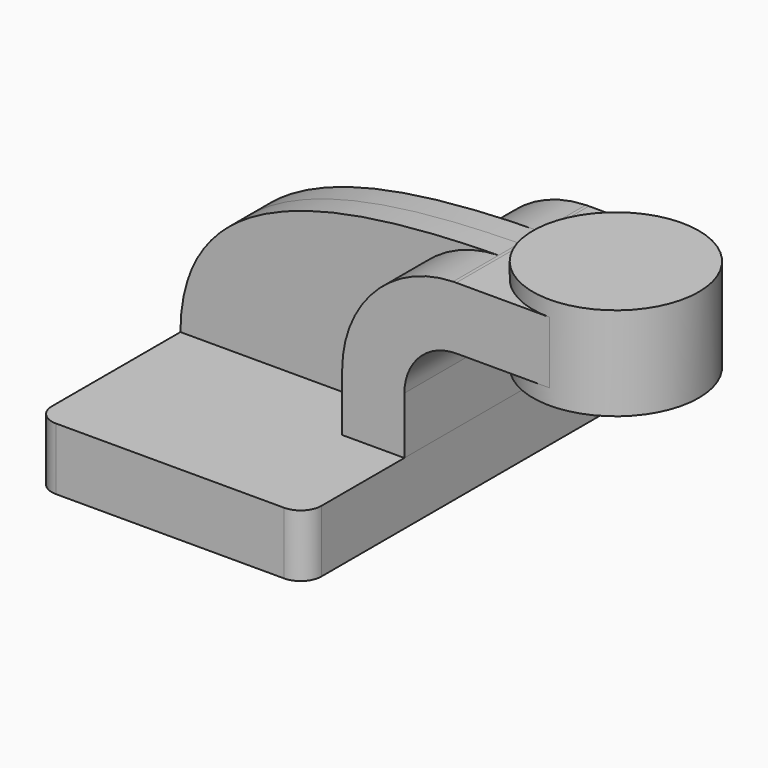
from build123d import *

# Parameters (mm, degrees)
F1_DEPTH = 63.5
F0_W     = 25.4
F0_H     = 19.05
F2_DEPTH = 25.4
F3_DEPTH = 7.9375
F5_R     = 6.35


with BuildPart() as f1:
    # F0 (on Front) → F1 (new body, symmetric)
    with BuildSketch(Plane.XZ):
        Polygon((-41.275, 9.525), (-41.275, -9.525), (41.275, -9.525), (41.275, 9.525), (22.225, 9.525), align=None)
    extrude(amount=F1_DEPTH, both=True)

    # F5
    f5_edges = [f1.edges().sort_by_distance(p)[0] for p in [
        (-41.275, -63.5, 0),
        (41.275, -63.5, 0),
        (41.275, 63.5, 0),
        (-41.275, 63.5, 0),
    ]]
    fillet(f5_edges, radius=F5_R)


with BuildPart() as f2:
    # F0 (on Front) → F2 (new body, symmetric)
    with BuildSketch(Plane.XZ):
        with BuildLine():
            Line((22.225, 9.525), (41.275, 9.525))
            Line((41.275, 9.525), (41.275, 27.0002))
            ThreePointArc((41.275, 27.0002), (45.9246798487, 38.2255201513), (57.15, 42.8752))
            Line((57.15, 42.8752), (60.325, 42.8752))
            Line((60.325, 42.8752), (60.325, 61.9252))
            Line((60.325, 61.9252), (57.15, 61.9252))
            add(Edge.make_bspline(
                [(56.1780302575, 61.9116723239), (56.5019603383, 61.9164954486), (56.825954601, 61.921002035), (57.15, 61.9252)],
                knots=[110.7782222377, 110.7782222377, 110.7782222377, 110.7782222377, 111.5045361635, 111.5045361635, 111.5045361635, 111.5045361635], degree=3))
            ThreePointArc((56.1780302575, 61.9116723239), (32.1130106816, 51.3498363602), (22.225, 27.0002))
            Line((22.225, 27.0002), (22.225, 9.525))
        make_face()
        with Locations((73.025, 52.4002)):
            Rectangle(F0_W, F0_H)
    extrude(amount=F2_DEPTH, both=True)

    # F0 (on Front) → F4 (revolve)
    with BuildSketch(Plane.XZ):
        Polygon((85.725, 66.675), (85.725, 61.9252), (85.725, 42.8752), (85.725, 38.1), (111.125, 38.1), (111.125, 66.675), align=None)
    revolve(axis=Axis((85.725, 0, 52.3875), (0, 0, 1)))


with BuildPart() as f3:
    # F0 (on Front) → F3 (new body, symmetric)
    with BuildSketch(Plane.XZ):
        with BuildLine():
            add(Edge.make_bspline(
                [(-41.275, 9.525), (-41.1412914304, 53.0768825952), (6.7718476056, 61.1760438853), (56.1780302575, 61.9116723239)],
                knots=[0, 0, 0, 0, 110.7782222377, 110.7782222377, 110.7782222377, 110.7782222377], degree=3))
            Line((-41.275, 9.525), (22.225, 9.525))
            Line((22.225, 9.525), (22.225, 27.0002))
            ThreePointArc((22.225, 27.0002), (32.1130106816, 51.3498363602), (56.1780302575, 61.9116723239))
        make_face()
    extrude(amount=F3_DEPTH, both=True)


solid = Compound([f1.part, f2.part, f3.part])
